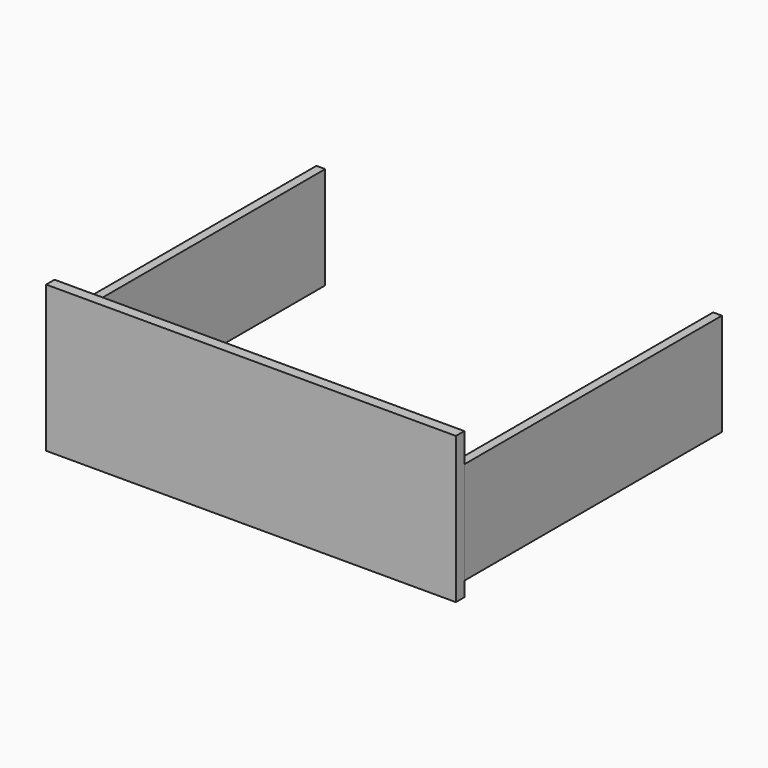
from build123d import *

# Parameters (mm, degrees)
F0_W      = 700
F0_H      = 250
F1_DEPTH  = 18
F2_W      = 550
F2_H      = 200
F3_DEPTH  = 15
F3_FACE_W = 15
F3_FACE_H = 550
F4_DEPTH  = 25


with BuildPart() as f1:
    # F0 (on Front) → F1 (new body)
    with BuildSketch(Plane.XZ):
        with Locations((-3.67187, 10.478279)):
            Rectangle(F0_W, F0_H)
    extrude(amount=F1_DEPTH)


with BuildPart() as f3:
    # F2 (on face) → F3 (new body)
    with BuildSketch(Plane.YZ.offset(346.32813)):
        with Locations((275, -14.521721)):
            Rectangle(F2_W, F2_H)
    extrude(amount=-F3_DEPTH)

    # F3_face (on face) → F4 (cut)
    with BuildSketch(Plane(origin=(338.82813, 275, -114.521721), x_dir=(1, 0, 0), z_dir=(0, 0, -1))):
        Rectangle(F3_FACE_W, F3_FACE_H)
    extrude(amount=-F4_DEPTH, mode=Mode.SUBTRACT)


with BuildPart() as f5_1:
    # F5: instance of F3
    add(f3.part.mirror(Plane.YZ))


solid = Compound([f1.part, f3.part, f5_1.part])
